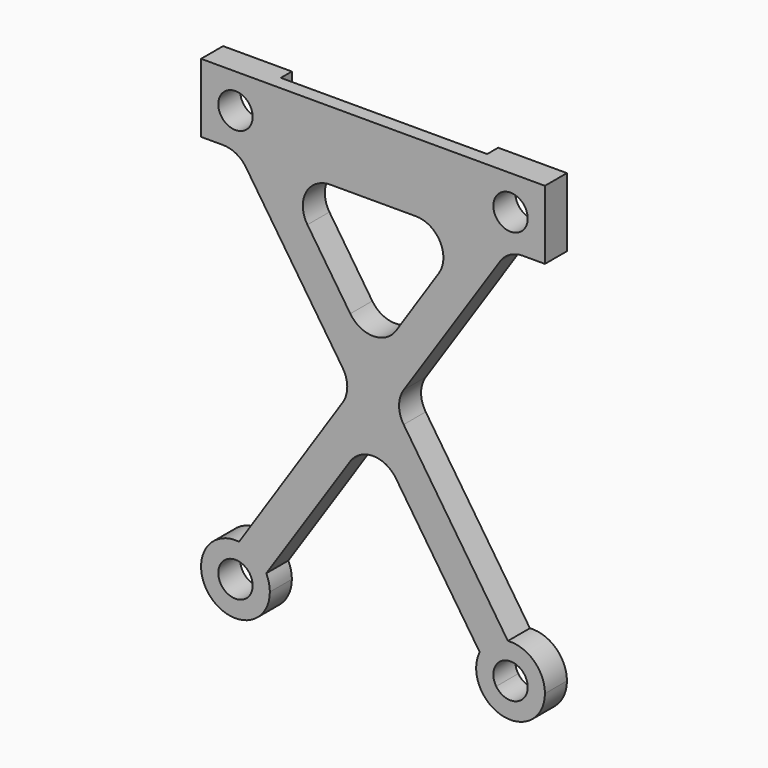
from build123d import *

# Parameters (mm, degrees)
F1_W     = 25
F1_H     = 5
F1_R     = 1.25
F2_DEPTH = 2
F0_W     = 15
F0_H     = 3
F3_DEPTH = 1
F5_DEPTH = 2
F6_R     = 2


with BuildPart() as f2:
    # F1 (on Front) → F2 (new body)
    with BuildSketch(Plane.XZ):
        with Locations((0.7514315657, 15.9062612424)):
            Rectangle(F1_W, F1_H)
        with Locations((-9.2485684343, 15.9062612424)):
            Circle(F1_R, mode=Mode.SUBTRACT)
        with Locations((10.7514315657, 15.9062612424)):
            Circle(F1_R, mode=Mode.SUBTRACT)
    extrude(amount=F2_DEPTH)

    # F0 (on Front) → F3 (cut)
    with BuildSketch(Plane.XZ):
        with Locations((0.7514315657, 16.9062612424)):
            Rectangle(F0_W, F0_H)
    extrude(amount=F3_DEPTH, mode=Mode.SUBTRACT)

    # F4 (on Front) → F5 (join)
    with BuildSketch(Plane.XZ):
        with BuildLine():
            ThreePointArc((11.7901169805, 15.2108242509), (10.058409027, 14.8659633231), (9.7095267544, 16.5968655894))
            Line((9.7095267544, 16.5968655894), (0.7694446684, 3.1090927712))
            Line((0.7694446684, 3.1090927712), (2.2445774484, 0.8925128366))
            Line((2.2445774484, 0.8925128366), (11.7901169805, 15.2108242509))
        make_face()
        Polygon((2.2445774484, 0.8925128366), (0.7694446684, 3.1090927712), (-0.7182862862, 0.8645745513), (0.7534939653, -1.3441127186), align=None)
        with BuildLine():
            Line((-0.7182862862, 0.8645745513), (0.7694446684, 3.1090927712))
            Line((0.7694446684, 3.1090927712), (-8.207945318, 16.5987953787))
            ThreePointArc((-8.207945318, 16.5987953787), (-8.4991860984, 14.9057982922), (-10.2057692667, 15.1023541792))
            Line((-10.2057692667, 15.1023541792), (-0.7182862862, 0.8645745513))
        make_face()
        with BuildLine():
            Line((10.5591020697, -11.6011478636), (2.2445774484, 0.8925128366))
            Line((2.2445774484, 0.8925128366), (0.7534939653, -1.3441127186))
            Line((0.7534939653, -1.3441127186), (8.5106430868, -12.9851960237))
            ThreePointArc((8.5106430868, -12.9851960237), (9.3518197991, -12.0222448757), (10.5591020697, -11.6011478636))
        make_face()
        with BuildLine():
            Line((0.7534939653, -1.3441127186), (-0.7182862862, 0.8645745513))
            Line((-0.7182862862, 0.8645745513), (-8.9852317039, -11.6076466904))
            ThreePointArc((-8.9852317039, -11.6076466904), (-7.8193399291, -12.0425669267), (-7.0075444884, -12.9856721197))
            Line((-7.0075444884, -12.9856721197), (0.7534939653, -1.3441127186))
        make_face()
        with BuildLine():
            Line((11.6190981521, -13.1939306142), (10.5591020697, -11.6011478636))
            ThreePointArc((10.5591020697, -11.6011478636), (9.3518197991, -12.0222448757), (8.5106430868, -12.9851960237))
            Line((8.5106430868, -12.9851960237), (9.7112213616, -14.7868929477))
            ThreePointArc((9.7112213616, -14.7868929477), (9.9502917065, -13.1342206879), (11.6190981521, -13.1939306142))
        make_face()
        with BuildLine():
            ThreePointArc((13.2514315657, -14.0937387576), (12.4498390934, -12.259232865), (10.5591020697, -11.6011478636))
            Line((10.5591020697, -11.6011478636), (11.6190981521, -13.1939306142))
            ThreePointArc((11.6190981521, -13.1939306142), (11.9018843533, -13.6049050604), (12.0014315657, -14.0937387576))
            ThreePointArc((12.0014315657, -14.0937387576), (11.1135346207, -15.2901422754), (9.7112213616, -14.7868929477))
            Line((9.7112213616, -14.7868929477), (8.5106430868, -12.9851960237))
            ThreePointArc((8.5106430868, -12.9851960237), (10.1822089367, -16.5280734919), (13.2514315657, -14.0937387576))
        make_face()
        with BuildLine():
            Line((-9.9451010739, -13.0557877559), (-8.9852317039, -11.6076466904))
            ThreePointArc((-8.9852317039, -11.6076466904), (-11.1071084292, -15.7658120476), (-6.7485684343, -14.0937387576))
            ThreePointArc((-6.7485684343, -14.0937387576), (-6.8141732461, -13.5247747274), (-7.0075444884, -12.9856721197))
            Line((-7.0075444884, -12.9856721197), (-8.208505519, -14.7871139319))
            ThreePointArc((-8.208505519, -14.7871139319), (-10.1311078637, -14.9789642404), (-9.9451010739, -13.0557877559))
        make_face()
        with BuildLine():
            ThreePointArc((-7.0075444884, -12.9856721197), (-7.8193399291, -12.0425669267), (-8.9852317039, -11.6076466904))
            Line((-8.9852317039, -11.6076466904), (-9.9451010739, -13.0557877559))
            ThreePointArc((-9.9451010739, -13.0557877559), (-8.6604212586, -12.9907505891), (-7.9985684343, -14.0937387576))
            ThreePointArc((-7.9985684343, -14.0937387576), (-8.0522033888, -14.4559689026), (-8.208505519, -14.7871139319))
            Line((-8.208505519, -14.7871139319), (-7.0075444884, -12.9856721197))
        make_face()
    extrude(amount=F5_DEPTH)

    # F6
    f6_edges = [f2.edges().sort_by_distance(p)[0] for p in [
        (0.769445, -1, 3.109093),
        (-0.718286, -1, 0.864575),
        (2.244577, -1, 0.892513),
        (0.753494, -1, -1.344113),
        (7.594703, -1, 13.406261),
        (-6.083316, -1, 13.406261),
        (-9.075561, -1, 13.406261),
        (10.587075, -1, 13.406261),
    ]]
    fillet(f6_edges, radius=F6_R)


solid = f2.part
